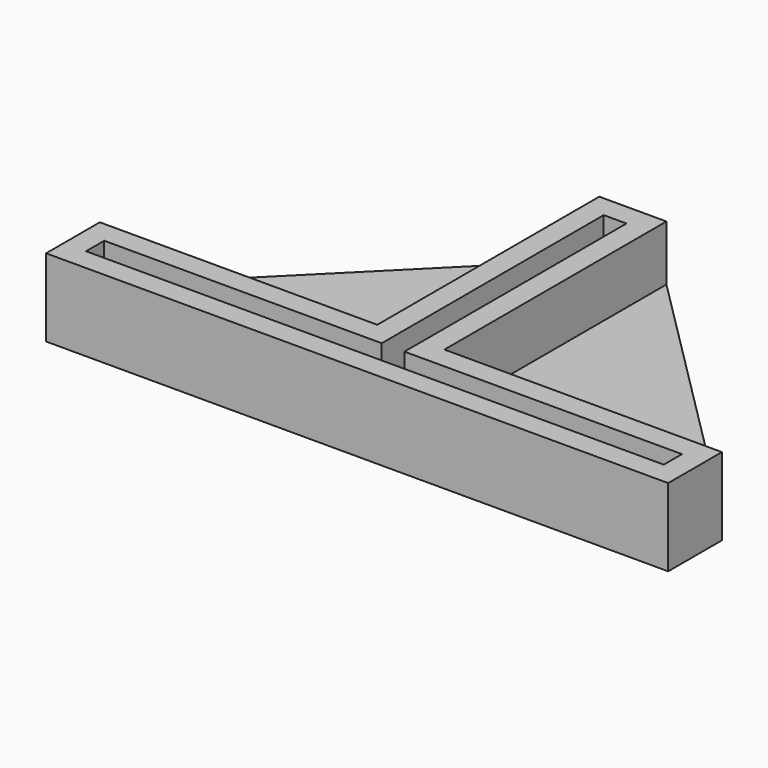
from build123d import *

# Parameters (mm, degrees)
F0_W     = 0.82
F0_H     = 0.8
F1_DEPTH = 2
F2_DEPTH = 0.8


with BuildPart() as f1:
    # F0 (on Top) → F1 (new body)
    with BuildSketch(Plane.XY):
        Polygon((-10.41, 0.41), (-0.41, 0.41), (-0.41, 10.41), (0.41, 10.41), (0.41, 0.41), (10.41, 0.41), (10.41, -0.41), (0.41, -0.41), (0.41, -1.21), (1.21, -1.21), (11.21, -1.21), (11.21, 1.21), (1.21, 1.21), (1.21, 11.21), (-1.21, 11.21), (-1.21, 1.21), (-11.21, 1.21), (-11.21, -1.21), (-1.21, -1.21), (-0.41, -1.21), (-0.41, -0.41), (-10.41, -0.41), align=None)
        with Locations((0, -0.81)):
            Rectangle(F0_W, F0_H)
    extrude(amount=F1_DEPTH)

    # F0 (on Top) + F1_face (on face) → F2 (join)
    with BuildSketch(Plane.XY):
        Polygon((-1.21, 11.21), (-11.21, 1.21), (-1.21, 1.21), align=None)
        Polygon((1.21, 1.21), (11.21, 1.21), (1.21, 11.21), align=None)
        Polygon((-10.41, 0.41), (-0.41, 0.41), (-0.41, 10.41), (0.41, 10.41), (0.41, 0.41), (10.41, 0.41), (10.41, -0.41), (0.41, -0.41), (0.41, -1.21), (1.21, -1.21), (11.21, -1.21), (11.21, 1.21), (1.21, 1.21), (1.21, 11.21), (-1.21, 11.21), (-1.21, 1.21), (-11.21, 1.21), (-11.21, -1.21), (-1.21, -1.21), (-0.41, -1.21), (-0.41, -0.41), (-10.41, -0.41), align=None)
        Polygon((-0.41, 10.41), (-0.41, 0.41), (-10.41, 0.41), (-10.41, -0.41), (-0.41, -0.41), (0.41, -0.41), (10.41, -0.41), (10.41, 0.41), (0.41, 0.41), (0.41, 10.41), align=None)
        with Locations((0, -0.81)):
            Rectangle(F0_W, F0_H)
    with BuildSketch(Plane(origin=(0, 1.991576, 2), x_dir=(1, 0, 0), z_dir=(0, 0, 1))):
        Polygon((11.21, -3.201576), (11.21, -0.781576), (1.21, -0.781576), (1.21, 9.218424), (-1.21, 9.218424), (-1.21, -0.781576), (-11.21, -0.781576), (-11.21, -3.201576), align=None)
        Polygon((-10.41, -2.401576), (-10.41, -1.581576), (-0.41, -1.581576), (-0.41, 8.418424), (0.41, 8.418424), (0.41, -1.581576), (10.41, -1.581576), (10.41, -2.401576), align=None, mode=Mode.SUBTRACT)
    extrude(amount=-F2_DEPTH)


solid = f1.part
